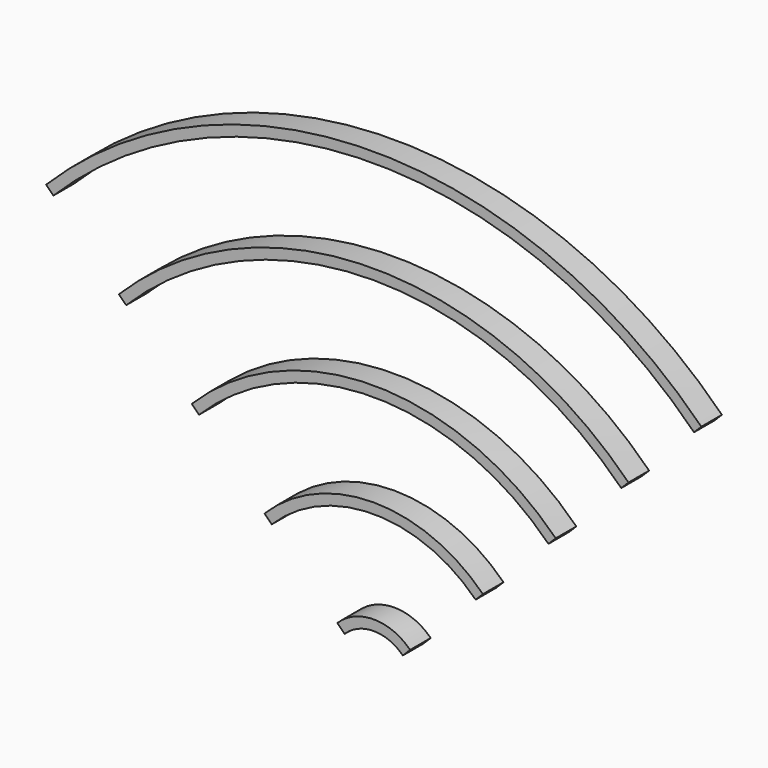
from build123d import *

# Parameters (mm, degrees)
F1_DEPTH      = 25
F1_DEPTH_BACK = 25


with BuildPart() as f1:
    # F0 (on Front) → F1 (new body, two sides)
    with BuildSketch(Plane.XZ) as f1_sk:
        with BuildLine():
            Line((-636.396103, 636.396103), (-622.253967, 622.253967))
            ThreePointArc((-622.253967, 622.253967), (0, 880), (622.253967, 622.253967))
            Line((622.253967, 622.253967), (636.396103, 636.396103))
            ThreePointArc((636.396103, 636.396103), (0, 900), (-636.396103, 636.396103))
        make_face()
        with BuildLine():
            Line((-494.974747, 494.974747), (-480.832611, 480.832611))
            ThreePointArc((-480.832611, 480.832611), (0, 680), (480.832611, 480.832611))
            Line((480.832611, 480.832611), (494.974747, 494.974747))
            ThreePointArc((494.974747, 494.974747), (0, 700), (-494.974747, 494.974747))
        make_face()
        with BuildLine():
            Line((-353.553391, 353.553391), (-339.411255, 339.411255))
            ThreePointArc((-339.411255, 339.411255), (0, 480), (339.411255, 339.411255))
            Line((339.411255, 339.411255), (353.553391, 353.553391))
            ThreePointArc((353.553391, 353.553391), (0, 500), (-353.553391, 353.553391))
        make_face()
        with BuildLine():
            Line((-212.132034, 212.132034), (-197.989899, 197.989899))
            ThreePointArc((-197.989899, 197.989899), (0, 280), (197.989899, 197.989899))
            Line((197.989899, 197.989899), (212.132034, 212.132034))
            ThreePointArc((212.132034, 212.132034), (0, 300), (-212.132034, 212.132034))
        make_face()
        with BuildLine():
            Line((-70.710678, 70.710678), (-56.568542, 56.568542))
            ThreePointArc((-56.568542, 56.568542), (0, 80), (56.568542, 56.568542))
            Line((56.568542, 56.568542), (70.710678, 70.710678))
            ThreePointArc((70.710678, 70.710678), (0, 100), (-70.710678, 70.710678))
        make_face()
    extrude(amount=F1_DEPTH)
    extrude(f1_sk.sketch, amount=-F1_DEPTH_BACK)


solid = f1.part
